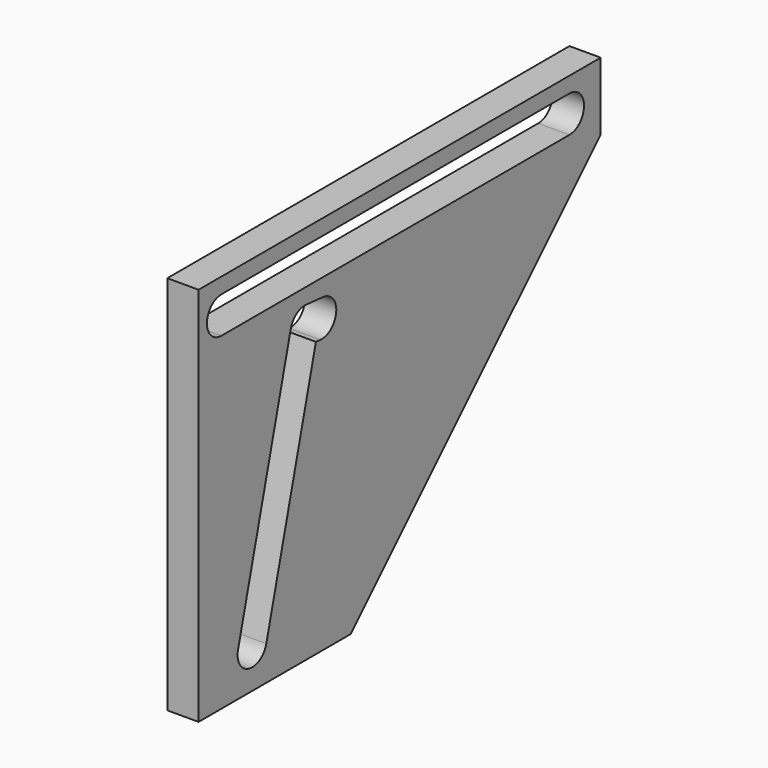
from build123d import *

# Parameters (mm, degrees)
F0_W     = 48.223095
F0_H     = 36.5
F1_DEPTH = 3
F2_SIZE  = 30


with BuildPart() as f1:
    # F0 (on Right) → F1 (new body)
    with BuildSketch(Plane.YZ):
        with Locations((21.361548, 14.5)):
            Rectangle(F0_W, F0_H)
        with BuildLine():
            Line((1.986595, 0.437045), (8.305452, 24.937045))
            ThreePointArc((8.305452, 24.937045), (8.989206, 25.928564), (10.151748, 26.243408))
            Line((10.151748, 26.243408), (12.166492, 26.068043))
            ThreePointArc((12.166492, 26.068043), (13.758152, 24.172887), (11.862996, 22.581227))
            Line((11.862996, 22.581227), (11.32448, 22.6281))
            Line((11.32448, 22.6281), (5.37569, -0.437045))
            ThreePointArc((5.37569, -0.437045), (3.244097, -1.694548), (1.986595, 0.437045))
        make_face(mode=Mode.SUBTRACT)
        with BuildLine():
            Line((41.723095, 27.75), (0, 27.75))
            ThreePointArc((0, 27.75), (-1.75, 29.5), (0, 31.25))
            Line((0, 31.25), (41.723095, 31.25))
            ThreePointArc((41.723095, 31.25), (43.473095, 29.5), (41.723095, 27.75))
        make_face(mode=Mode.SUBTRACT)
    extrude(amount=F1_DEPTH)

    # F2
    f2_edges = [f1.edges().sort_by_distance(p)[0] for p in [
        (1.5, 45.473095, -3.75),
    ]]
    chamfer(f2_edges, length=F2_SIZE)


solid = f1.part
